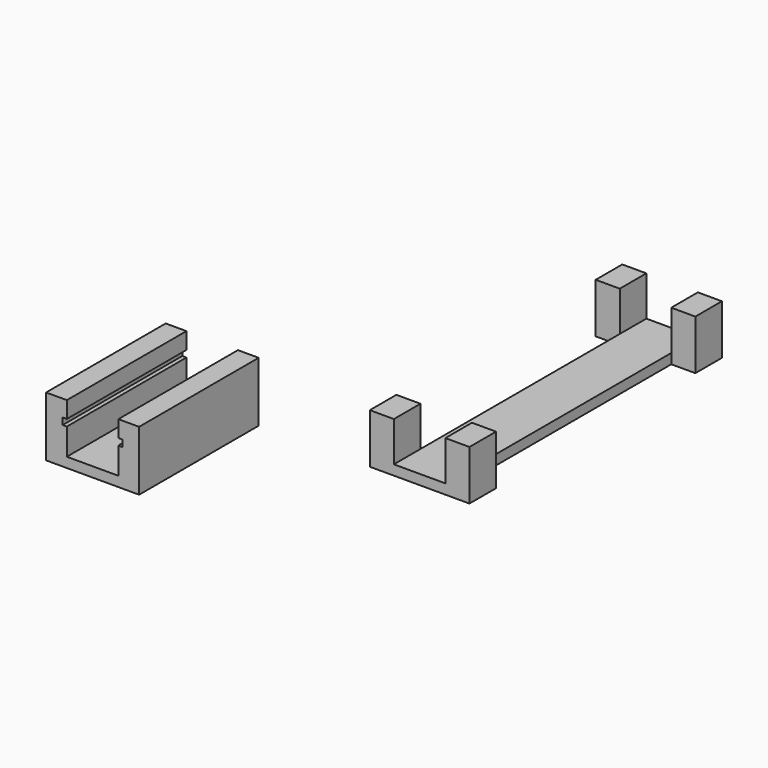
from build123d import *

# Parameters (mm, degrees)
F0_W     = 7.25
F0_H     = 10
F1_DEPTH = 15
F2_DEPTH = 3
F4_DEPTH = 45


with BuildPart() as f1:
    # F0 (on Top) → F1 (new body)
    with BuildSketch(Plane.XY):
        with Locations((3.625, 90)):
            Rectangle(F0_W, F0_H)
        with Locations((26.375, 5)):
            Rectangle(F0_W, F0_H)
        with Locations((26.375, 90)):
            Rectangle(F0_W, F0_H)
        with Locations((3.625, 5)):
            Rectangle(F0_W, F0_H)
    extrude(amount=F1_DEPTH)

    # F0 (on Top) → F2 (join)
    with BuildSketch(Plane.XY):
        Polygon((7.25, 10), (7.25, 0), (22.75, 0), (22.75, 10), (22.75, 85), (22.75, 95), (7.25, 95), (7.25, 85), align=None)
    extrude(amount=F2_DEPTH)


with BuildPart() as f4:
    # F3 (on Front) → F4 (new body)
    with BuildSketch(Plane.XZ):
        Polygon((-61.444285, 18), (-61.444285, 0), (-33.444285, 0), (-33.444285, 18), (-39.694285, 18), (-39.694285, 13), (-38.444285, 13), (-38.444285, 11), (-39.694285, 11), (-39.694285, 3), (-55.194285, 3), (-55.194285, 11), (-56.444285, 11), (-56.444285, 13), (-55.194285, 13), (-55.194285, 18), align=None)
    extrude(amount=F4_DEPTH)


solid = Compound([f1.part, f4.part])
